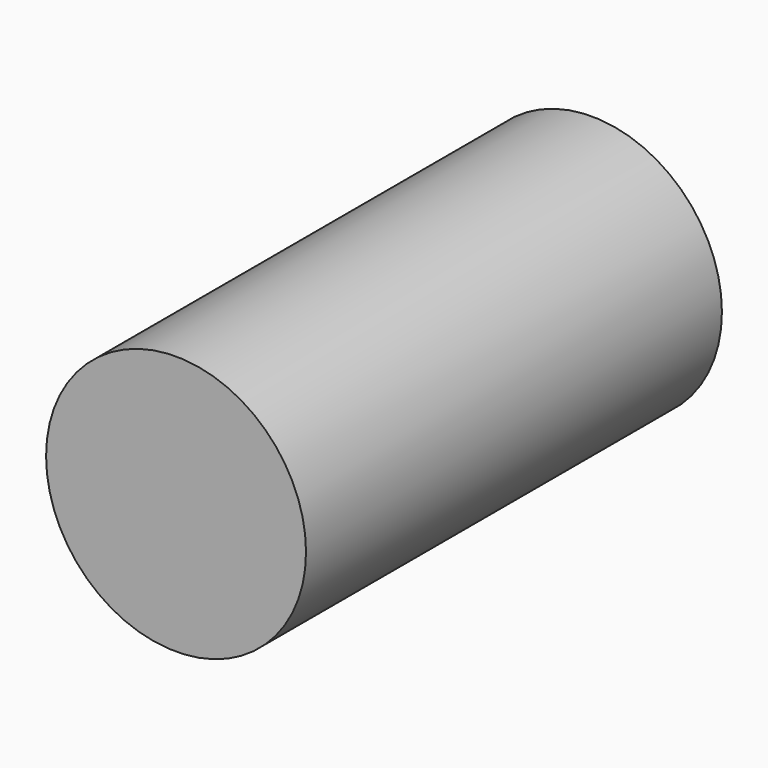
from build123d import *

# Parameters (mm, degrees)
F0_R     = 4.7625
F0_R_2   = 3.175
F1_DEPTH = 19.05
F2_DEPTH = 12.7


with BuildPart() as f1:
    # F0 (on Front) → F1 (new body)
    with BuildSketch(Plane.XZ):
        Circle(F0_R)
        Circle(F0_R_2, mode=Mode.SUBTRACT)
        Circle(F0_R_2)
    extrude(amount=F1_DEPTH)

    # F0 (on Front) → F2 (cut)
    with BuildSketch(Plane.XZ):
        Circle(F0_R_2)
    extrude(amount=F2_DEPTH, mode=Mode.SUBTRACT)


solid = f1.part
